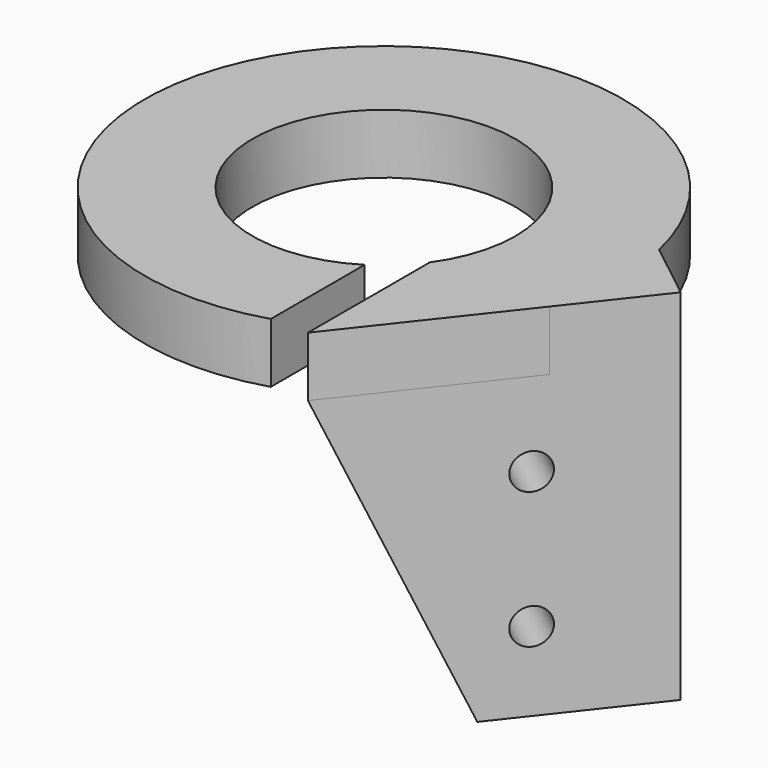
from build123d import *

# Parameters (mm, degrees)
F1_DEPTH      = 6.35
F2_W          = 25.4
F2_H          = 7.62
F3_DEPTH      = 50.8
F3_DEPTH_BACK = 6.35
F4_R          = 1.905
F5_DEPTH      = 25.4
F6_W          = 25.4
F6_H          = 12.7
F7_DEPTH      = 25.4
F9_DEPTH      = 50.8
F11_DEPTH     = 38.1
F12_R         = 1.905
F13_DEPTH     = 25.4
F15_DEPTH     = 25.4


with BuildPart() as f1:
    # F0 (on Top) → F1 (new body)
    with BuildSketch(Plane.XY):
        with BuildLine():
            Line((0, 50.8), (0, 0))
            Line((0, 0), (12.7, 0))
            Line((12.7, 0), (12.7, 50.8))
            ThreePointArc((12.7, 50.8), (-29.065215599, 77.1403437723), (-3.9445899309, 34.6303318914))
            Line((-3.9445899309, 34.6303318914), (-3.9445899309, 47.0864193681))
            ThreePointArc((-3.9445899309, 47.0864193681), (-20.9424468727, 69.0934306211), (0, 50.8))
        make_face()
    extrude(amount=F1_DEPTH)

    # F2 (on face) → F3 (join, two sides)
    with BuildSketch(Plane(origin=(0, 0, 0), x_dir=(1, 0, 0), z_dir=(0, 0, -1))) as f3_sk:
        with Locations((6.35, -3.81)):
            Rectangle(F2_W, F2_H)
    extrude(amount=F3_DEPTH)
    extrude(f3_sk.sketch, amount=-F3_DEPTH_BACK)

    # F4 (on face) → F5 (cut)
    with BuildSketch(Plane.XZ):
        with Locations((6.35, -8.89)):
            Circle(F4_R)
        with Locations((6.35, -23.368)):
            Circle(F4_R)
    extrude(amount=-F5_DEPTH, mode=Mode.SUBTRACT)

    # F6 (on face) → F7 (cut)
    with BuildSketch(Plane(origin=(0, 7.62, 0), x_dir=(-1, 0, 0), z_dir=(0, 1, 0))):
        with Locations((-6.35, -44.45)):
            Rectangle(F6_W, F6_H)
    extrude(amount=-F7_DEPTH, mode=Mode.SUBTRACT)

    # F8 (on face) → F9 (cut)
    with BuildSketch(Plane.XY.offset(6.35)):
        Polygon((12.7, 50.8), (0, 34.6303318914), (0, 17.3151659457), (-24.9700341374, 14.0488371253), (-24.9700341374, -25.5910921842), (41.8248102069, -22.4698372185), (37.4550558627, 0), (37.4550558627, 34.6303318914), align=None)
    extrude(amount=-F9_DEPTH, mode=Mode.SUBTRACT)

    # F10 (on face) → F11 (join)
    with BuildSketch(Plane.XY.offset(6.35)):
        Polygon((0, 50.8), (0, 34.6303318914), (19.6113090693, 59.5994940036), (11.7567067815, 65.7686650951), align=None)
    extrude(amount=-F11_DEPTH)

    # F12 (on face) → F13 (cut)
    with BuildSketch(Plane(origin=(-16.8220820781, 13.2124197576, 0), x_dir=(0.6176790258, 0.7864303027, 0), z_dir=(0.7864303027, -0.6176790258, 0))):
        with Locations((46.2843423936, -8.89)):
            Circle(F12_R)
        with Locations((46.2843423936, -23.368)):
            Circle(F12_R)
    extrude(amount=-F13_DEPTH, mode=Mode.SUBTRACT)

    # F14 (on face) → F15 (cut)
    with BuildSketch(Plane(origin=(-16.8220820781, 13.2124197576, 0), x_dir=(0.6176790258, 0.7864303027, 0), z_dir=(0.7864303027, -0.6176790258, 0))):
        Polygon((27.2343423936, -31.75), (41.6614189744, -31.75), (27.2343423936, 0), align=None)
    extrude(amount=-F15_DEPTH, mode=Mode.SUBTRACT)


solid = f1.part
